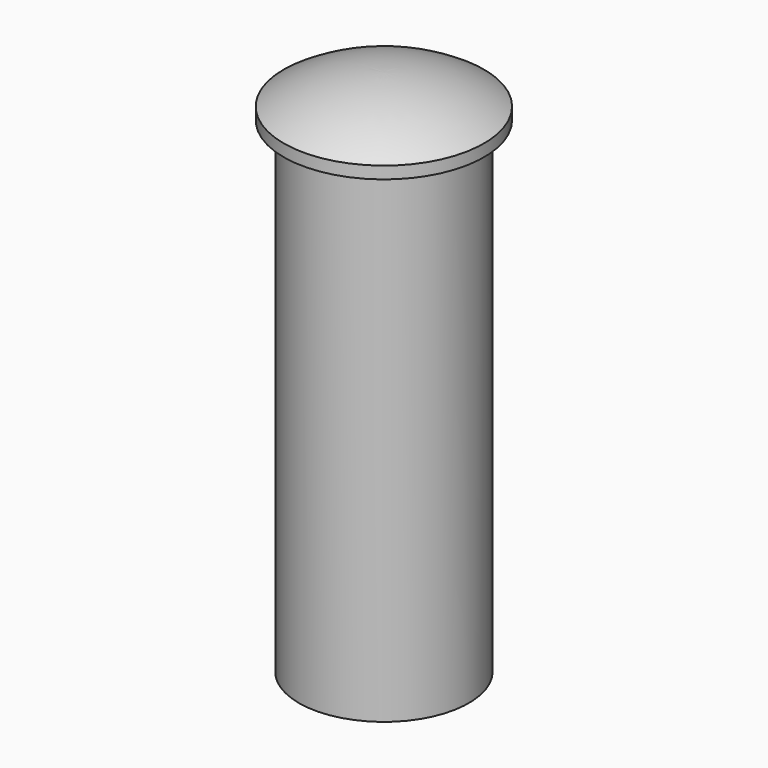
from build123d import *


with BuildPart() as part:
    # Sketch → Revolution (revolve)
    with BuildSketch(Plane.XZ):
        with BuildLine():
            Line((-1.4, 0), (-1.4, -8))
            Line((-1.4, -8), (0, -8))
            Line((0, 0.694506), (0, -8))
            ThreePointArc((0, 0.694506), (-0.861254, 0.568222), (-1.65, 0.2))
            Line((-1.65, 0), (-1.65, 0.2))
            Line((-1.65, 0), (-1.4, 0))
        make_face()
    revolve(axis=Axis((0, 0, 0), (0, 0, 1)))


solid = part.part
